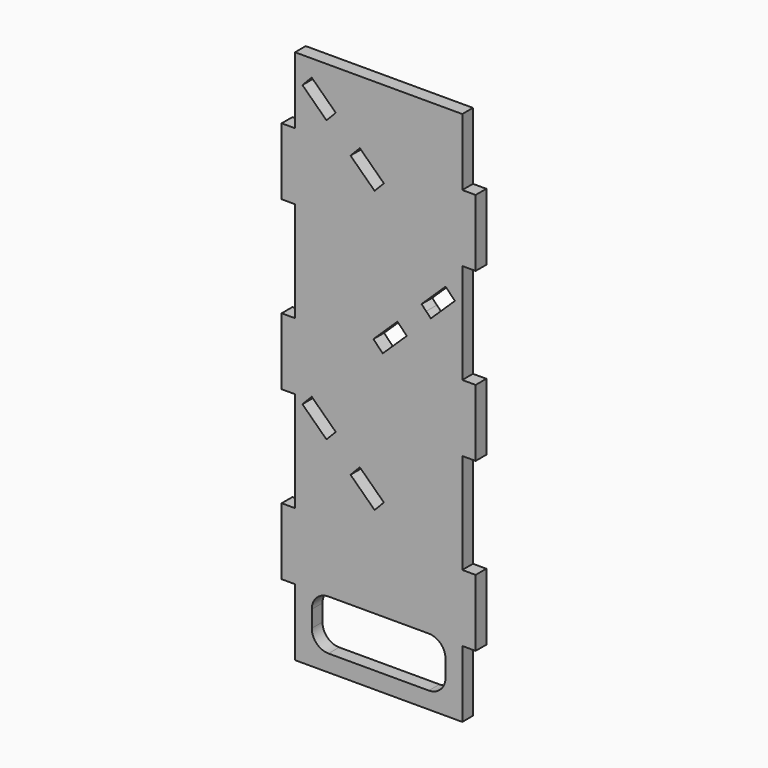
from build123d import *

# Parameters (mm, degrees)
F0_W     = 50
F0_H     = 160
F1_DEPTH = 4
F2_W     = 4
F2_H     = 20
F2_H_2   = 10
F3_DEPTH = 4
F4_W     = 40
F4_H     = 15
F5_DEPTH = 25
F6_R     = 5


with BuildPart() as f1:
    # F0 (on Front) → F1 (new body)
    with BuildSketch(Plane.XZ):
        Rectangle(F0_W, F0_H)
        Polygon((-21.403301, -10.473292), (-20.013984, -9.034612), (-12.820586, -15.981196), (-14.209903, -17.419876), (-15.59922, -18.858555), (-22.792618, -11.911971), align=None, mode=Mode.SUBTRACT)
        Polygon((-1.212424, -32.751723), (-8.405822, -25.805139), (-7.016505, -24.366459), (-5.627188, -22.92778), (1.56621, -29.874363), (0.176893, -31.313043), align=None, mode=Mode.SUBTRACT)
        Polygon((-22.792618, 72.088029), (-21.403301, 73.526708), (-20.013984, 74.965388), (-12.820586, 68.018804), (-14.209903, 66.580124), (-15.59922, 65.141445), align=None, mode=Mode.SUBTRACT)
        Polygon((-8.405822, 58.194861), (-7.016505, 59.633541), (-5.627188, 61.07222), (1.56621, 54.125637), (0.176893, 52.686957), (-1.212424, 51.248277), align=None, mode=Mode.SUBTRACT)
        Polygon((5.627188, 19.07222), (7.016505, 17.633541), (8.405822, 16.194861), (1.212424, 9.248277), (-0.176893, 10.686957), (-1.56621, 12.125637), align=None, mode=Mode.SUBTRACT)
        Polygon((20.013984, 32.965388), (21.403301, 31.526708), (22.792618, 30.088029), (15.59922, 23.141445), (14.209903, 24.580124), (12.820586, 26.018804), align=None, mode=Mode.SUBTRACT)
    extrude(amount=F1_DEPTH)

    # F2 (on face) → F3 (join)
    with BuildSketch(Plane.XZ.offset(4)):
        with Locations((-27, 50)):
            Rectangle(F2_W, F2_H)
        with Locations((-27, -5)):
            Rectangle(F2_W, F2_H_2)
        with Locations((-27, 5)):
            Rectangle(F2_W, F2_H_2)
        with Locations((-27, -50)):
            Rectangle(F2_W, F2_H)
        with Locations((27, 5)):
            Rectangle(F2_W, F2_H_2)
        with Locations((27, -5)):
            Rectangle(F2_W, F2_H_2)
        with Locations((27, 50)):
            Rectangle(F2_W, F2_H)
        with Locations((27, -50)):
            Rectangle(F2_W, F2_H)
    extrude(amount=-F3_DEPTH)

    # F4 (on face) → F5 (cut)
    with BuildSketch(Plane.XZ.offset(4)):
        with Locations((0, -67.5)):
            Rectangle(F4_W, F4_H)
    extrude(amount=-F5_DEPTH, mode=Mode.SUBTRACT)

    # F6
    f6_edges = [f1.edges().sort_by_distance(p)[0] for p in [
        (-20, -2, -60),
        (20, -2, -60),
        (20, -2, -75),
        (-20, -2, -75),
    ]]
    fillet(f6_edges, radius=F6_R)


solid = f1.part
